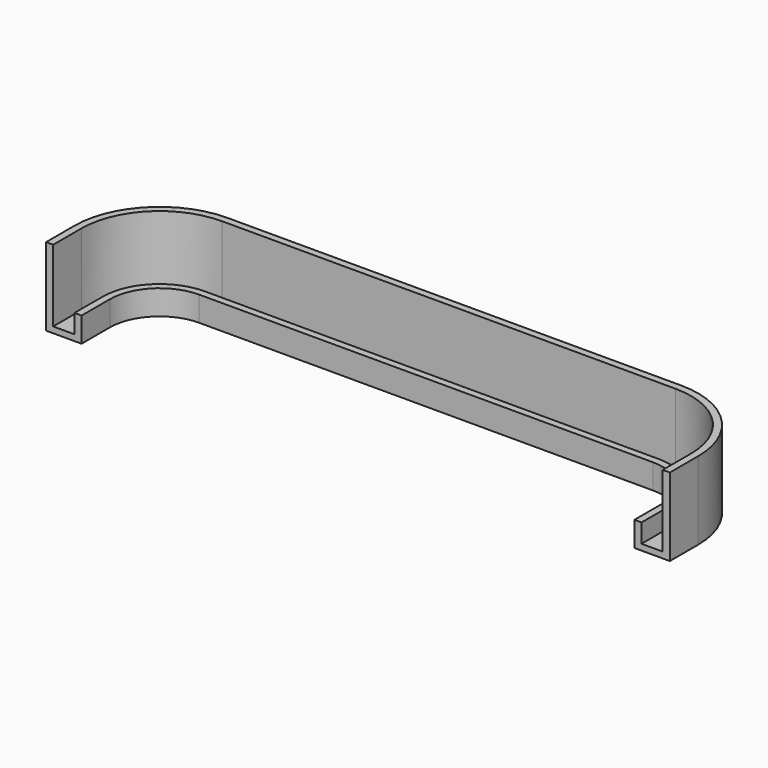
from build123d import *

# Parameters (mm, degrees)
F1_DEPTH = 1.7
F2_DEPTH = 7
F3_DEPTH = 22


with BuildPart() as f1:
    # F0 (on Top) → F1 (new body)
    with BuildSketch(Plane.XY):
        with BuildLine():
            Line((-22, -24), (-16, -24))
            Line((-16, -24), (-16, -14))
            ThreePointArc((-16, -14), (-11.313708, -2.686292), (0, 2))
            Line((0, 2), (128, 2))
            ThreePointArc((128, 2), (139.313708, -2.686292), (144, -14))
            Line((144, -14), (144, -24))
            Line((144, -24), (150, -24))
            Line((150, -24), (150, -14))
            ThreePointArc((150, -14), (143.556349, 1.556349), (128, 8))
            Line((128, 8), (0, 8))
            ThreePointArc((0, 8), (-15.556349, 1.556349), (-22, -14))
            Line((-22, -14), (-22, -24))
        make_face()
    extrude(amount=F1_DEPTH)

    # F0 (on Top) → F2 (join)
    with BuildSketch(Plane.XY):
        with BuildLine():
            ThreePointArc((-14, -14), (-9.899495, -4.100505), (0, 0))
            Line((0, 0), (128, 0))
            ThreePointArc((128, 0), (137.899495, -4.100505), (142, -14))
            Line((142, -14), (142, -24))
            Line((142, -24), (144, -24))
            Line((144, -24), (144, -14))
            ThreePointArc((144, -14), (139.313708, -2.686292), (128, 2))
            Line((128, 2), (0, 2))
            ThreePointArc((0, 2), (-11.313708, -2.686292), (-16, -14))
            Line((-16, -14), (-16, -24))
            Line((-16, -24), (-14, -24))
            Line((-14, -24), (-14, -14))
        make_face()
    extrude(amount=F2_DEPTH)

    # F0 (on Top) → F3 (join)
    with BuildSketch(Plane.XY):
        with BuildLine():
            Line((-24, -24), (-22, -24))
            Line((-22, -24), (-22, -14))
            ThreePointArc((-22, -14), (-15.556349, 1.556349), (0, 8))
            Line((0, 8), (128, 8))
            ThreePointArc((128, 8), (143.556349, 1.556349), (150, -14))
            Line((150, -14), (150, -24))
            Line((150, -24), (152, -24))
            Line((152, -24), (152, -14))
            ThreePointArc((152, -14), (144.970563, 2.970563), (128, 10))
            Line((128, 10), (0, 10))
            ThreePointArc((0, 10), (-16.970563, 2.970563), (-24, -14))
            Line((-24, -14), (-24, -24))
        make_face()
    extrude(amount=F3_DEPTH)


solid = f1.part
